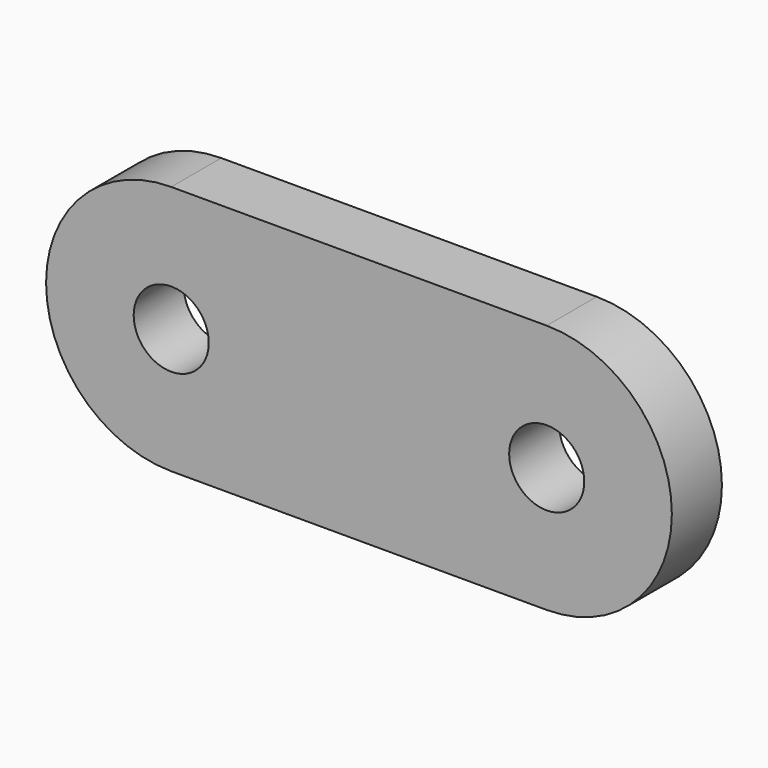
from build123d import *

# Parameters (mm, degrees)
F1_DEPTH = 10
F2_D     = 12


with BuildPart() as f1:
    # F0 (on Front) → F1 (new body)
    with BuildSketch(Plane.XZ):
        with BuildLine():
            ThreePointArc((0, 40), (-20, 20), (0, 0))
            Line((0, 0), (60, 0))
            ThreePointArc((60, 0), (80, 20), (60, 40))
            Line((60, 40), (0, 40))
        make_face()
    extrude(amount=F1_DEPTH)

    # F2 (through all)
    with Locations(Plane(origin=(0, 0, 0), x_dir=(1, 0, 0), z_dir=(0, 1, 0))):
        with Locations((0, -20), (60, -20)):
            Hole(F2_D / 2)


solid = f1.part
